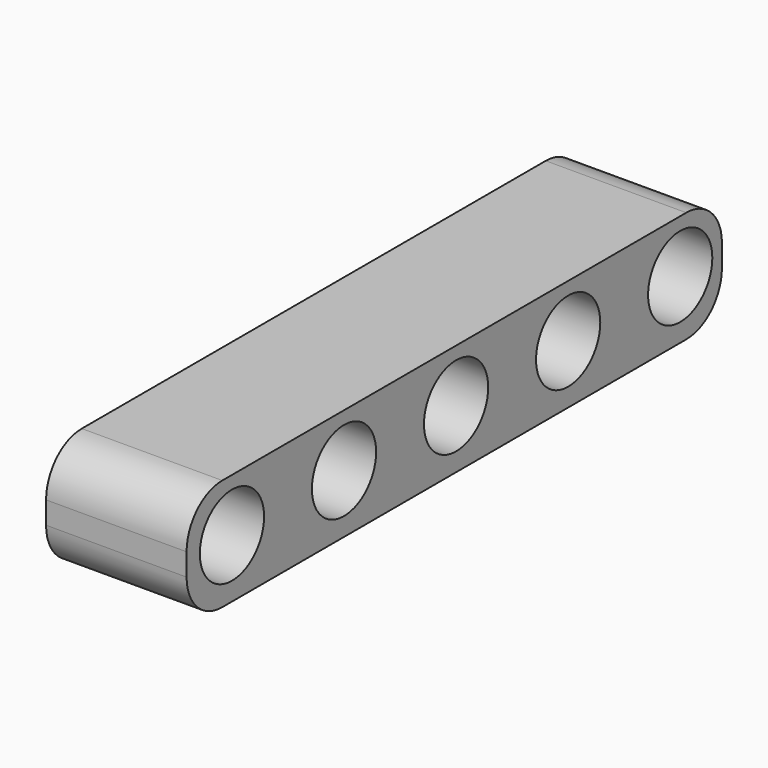
from build123d import *

# Parameters (mm, degrees)
F0_W     = 38.1
F0_H     = 6.35
F2_DEPTH = 8.001
F1_R     = 2.286
F3_DEPTH = 25.4
F4_R     = 2.54
F5_R     = 2.54
F6_R     = 2.54
F7_R     = 2.54


with BuildPart() as f2:
    # F0 (on Right) → F2 (new body)
    with BuildSketch(Plane.YZ):
        with Locations((1.877956, -1.010046)):
            Rectangle(F0_W, F0_H)
    extrude(amount=F2_DEPTH)

    # F1 (on face) → F3 (cut)
    with BuildSketch(Plane.YZ):
        with Locations((-13.943814, -0.854794)):
            Circle(F1_R)
        with Locations((-5.968214, -0.854794)):
            Circle(F1_R)
        with Locations((2.007386, -0.854794)):
            Circle(F1_R)
        with Locations((9.982986, -0.854794)):
            Circle(F1_R)
        with Locations((17.958586, -0.854794)):
            Circle(F1_R)
    extrude(amount=F3_DEPTH, mode=Mode.SUBTRACT)

    # F4
    f4_edges = [f2.edges().sort_by_distance(p)[0] for p in [
        (4.0005, -17.172044, 2.164954),
    ]]
    fillet(f4_edges, radius=F4_R)

    # F5
    f5_edges = [f2.edges().sort_by_distance(p)[0] for p in [
        (4.0005, -17.172044, -4.185046),
    ]]
    fillet(f5_edges, radius=F5_R)

    # F6
    f6_edges = [f2.edges().sort_by_distance(p)[0] for p in [
        (4.0005, 20.927956, 2.164954),
    ]]
    fillet(f6_edges, radius=F6_R)

    # F7
    f7_edges = [f2.edges().sort_by_distance(p)[0] for p in [
        (4.0005, 20.927956, -4.185046),
    ]]
    fillet(f7_edges, radius=F7_R)


solid = f2.part
